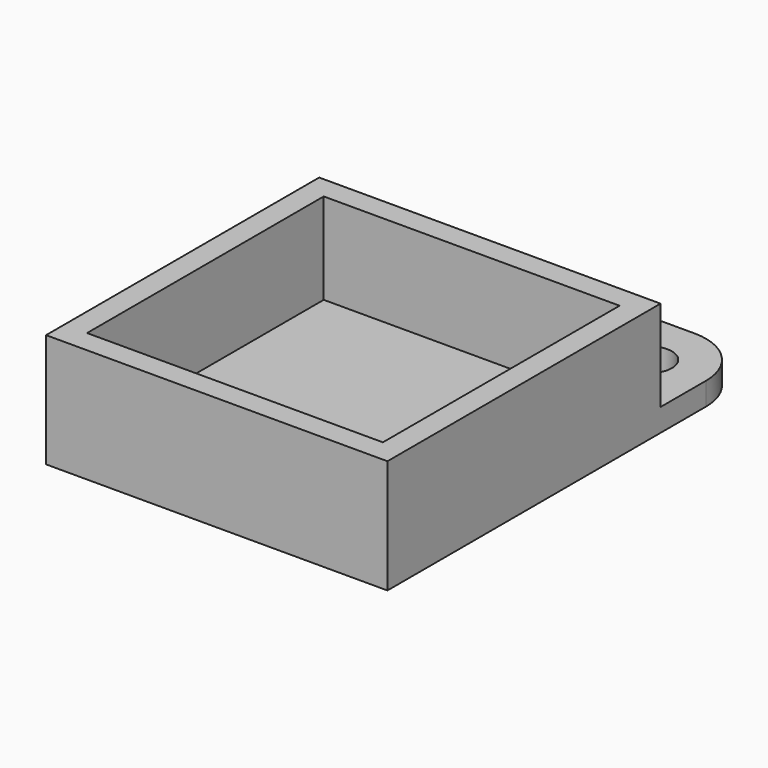
from build123d import *

# Parameters (mm, degrees)
BOX_W        = 30
BOX_H        = 30
BOX_DEPTH    = 10
BOX001_W     = 26
BOX001_H     = 26
BOX001_DEPTH = 8
SKETCH_R     = 2
PAD_DEPTH    = 2


with BuildPart() as part:
    # Box → Box (join)
    with BuildSketch(Plane.XY):
        with Locations((15, 15)):
            Rectangle(BOX_W, BOX_H)
    extrude(amount=BOX_DEPTH)

    # Box001 → Box001 (cut)
    with BuildSketch(Plane(origin=(2, 2, 2), x_dir=(1, 0, 0), z_dir=(0, 0, 1))):
        with Locations((13, 13)):
            Rectangle(BOX001_W, BOX001_H)
    extrude(amount=BOX001_DEPTH, mode=Mode.SUBTRACT)

    # Sketch → Pad (join)
    with BuildSketch(Plane.XY):
        with BuildLine():
            Line((0, 35), (0, 30))
            ThreePointArc((0, 30), (1.464466, 26.464466), (5, 25))
            Line((5, 25), (25, 25))
            ThreePointArc((25, 25), (28.535534, 26.464466), (30, 30))
            Line((30, 30), (30, 35))
            ThreePointArc((30, 35), (28.535534, 38.535534), (25, 40))
            Line((25, 40), (5, 40))
            ThreePointArc((5, 40), (1.464466, 38.535534), (0, 35))
        make_face()
        with Locations((5, 35)):
            Circle(SKETCH_R, mode=Mode.SUBTRACT)
        with Locations((25, 35)):
            Circle(SKETCH_R, mode=Mode.SUBTRACT)
    extrude(amount=PAD_DEPTH)


solid = part.part
